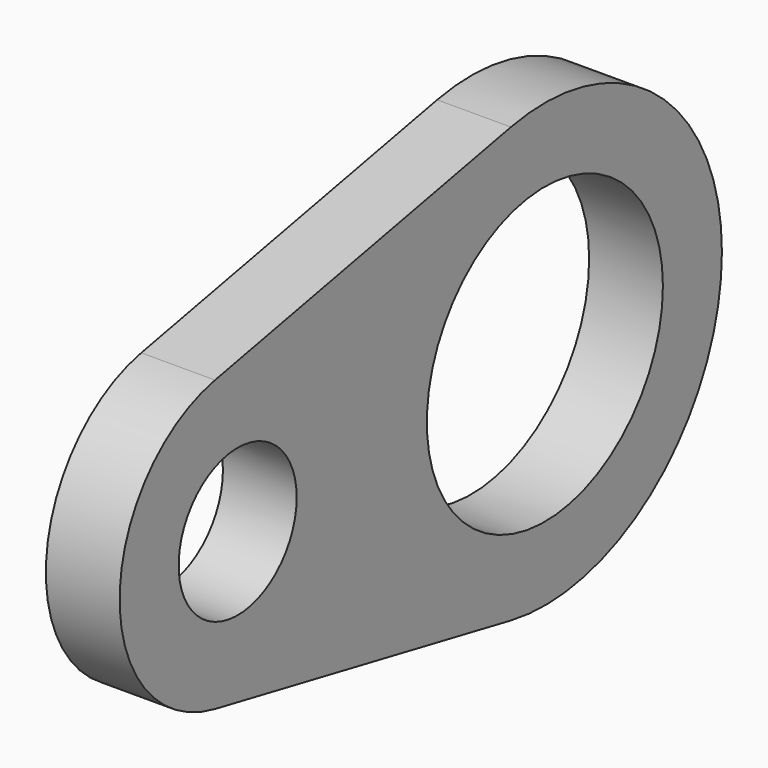
from build123d import *

# Parameters (mm, degrees)
F0_R     = 3.175
F0_R_2   = 6.35
F1_DEPTH = 3.175


with BuildPart() as f1:
    # F0 (on Right) → F1 (new body)
    with BuildSketch(Plane.YZ):
        with BuildLine():
            Line((14.69936, 9.347625), (-1.219751, 6.23175))
            ThreePointArc((-1.219751, 6.23175), (-6.35, 0), (-1.219751, -6.23175))
            Line((-1.219751, -6.23175), (14.69936, -9.347625))
            ThreePointArc((14.69936, -9.347625), (26.053986, 0), (14.69936, 9.347625))
        make_face()
        Circle(F0_R, mode=Mode.SUBTRACT)
        with Locations((16.528986, 0)):
            Circle(F0_R_2, mode=Mode.SUBTRACT)
    extrude(amount=F1_DEPTH)


solid = f1.part
